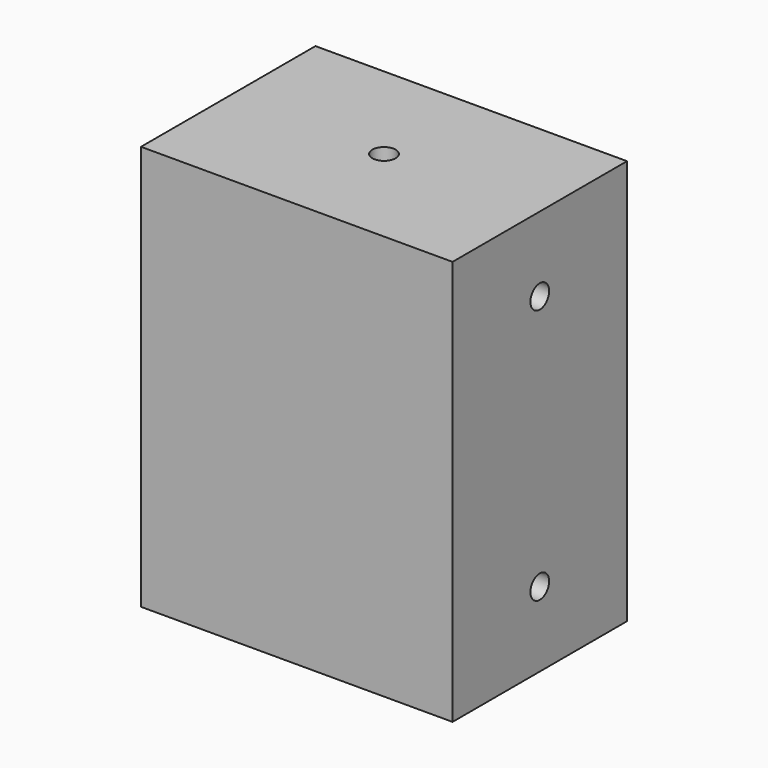
from build123d import *

# Parameters (mm, degrees)
F0_W     = 63.5
F0_H     = 82.55
F1_DEPTH = 22.225
F2_R     = 2.38125
F3_DEPTH = 12.7
F4_R     = 2.38125
F5_DEPTH = 63.501
F6_R     = 1.27
F7_DEPTH = 25.4
F8_R     = 3.96875
F9_DEPTH = 3.81


with BuildPart() as f1:
    # F0 (on Front) → F1 (new body, symmetric)
    with BuildSketch(Plane.XZ):
        Rectangle(F0_W, F0_H)
    extrude(amount=F1_DEPTH, both=True)

    # F2 (on face) → F3 (cut)
    with BuildSketch(Plane.XY.offset(41.275)):
        Circle(F2_R)
    extrude(amount=-F3_DEPTH, mode=Mode.SUBTRACT)

    # F4 (on face) → F5 (cut, through all)
    with BuildSketch(Plane(origin=(-31.75, 0, 0), x_dir=(0, -1, 0), z_dir=(-1, 0, 0))):
        with Locations((0, 26.035)):
            Circle(F4_R)
        with Locations((0, -26.035)):
            Circle(F4_R)
    extrude(amount=-F5_DEPTH, mode=Mode.SUBTRACT)

    # F6 (on face) → F7 (cut)
    with BuildSketch(Plane(origin=(0, 22.225, 0), x_dir=(-1, 0, 0), z_dir=(0, 1, 0))):
        with Locations((0, 33.655)):
            Circle(F6_R)
    extrude(amount=-F7_DEPTH, mode=Mode.SUBTRACT)

    # F8 (on face) → F9 (cut)
    with BuildSketch(Plane(origin=(0, 22.225, 0), x_dir=(-1, 0, 0), z_dir=(0, 1, 0))):
        with Locations((0, 33.655)):
            Circle(F8_R)
    extrude(amount=-F9_DEPTH, mode=Mode.SUBTRACT)


solid = f1.part
